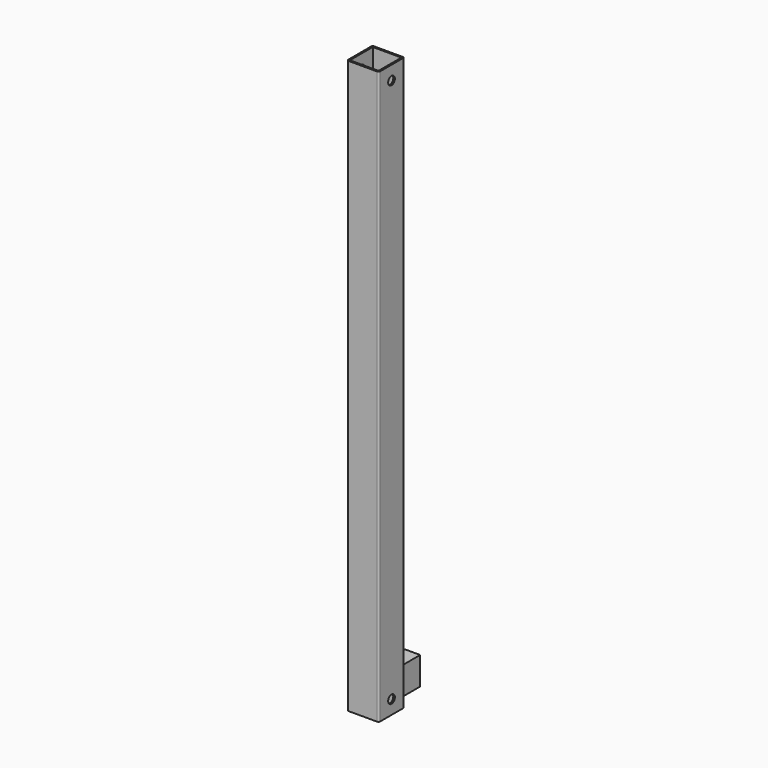
from build123d import *

# Parameters (mm, degrees)
F0_W     = 40
F0_H     = 40
F0_W_2   = 36
F0_H_2   = 36
F1_DEPTH = 720
F2_W     = 36
F2_H     = 36
F2_R     = 5.25
F3_DEPTH = 35
F5_D     = 10.5
F7_D     = 10.5
F8_R     = 2


with BuildPart() as f1:
    # F0 (on Top) → F1 (new body)
    with BuildSketch(Plane.XY):
        with Locations((-20, -20)):
            Rectangle(F0_W, F0_H)
        with Locations((-20, -20)):
            Rectangle(F0_W_2, F0_H_2, mode=Mode.SUBTRACT)
    extrude(amount=F1_DEPTH)

    # F5 (through all)
    with Locations(Plane(origin=(-40, 0, 0), x_dir=(0, -1, 0), z_dir=(-1, 0, 0))):
        with Locations((20, 17.5)):
            Hole(F5_D / 2)

    # F7 (through all)
    with Locations(Plane(origin=(-40, 0, 0), x_dir=(0, -1, 0), z_dir=(-1, 0, 0))):
        with Locations((20, 702.5)):
            Hole(F7_D / 2)

    # F8
    f8_edges = [f1.edges().sort_by_distance(p)[0] for p in [
        (0, -40, 360),
        (-40, -40, 360),
        (0, 0, 360),
        (-40, 0, 360),
    ]]
    fillet(f8_edges, radius=F8_R)


with BuildPart() as f3:
    # F2 (on Top) → F3 (new body)
    with BuildSketch(Plane.XY):
        with Locations((-33.769461, 26.767461)):
            Rectangle(F2_W, F2_H)
        with Locations((-33.769461, 26.767461)):
            Circle(F2_R, mode=Mode.SUBTRACT)
    extrude(amount=F3_DEPTH)


solid = Compound([f1.part, f3.part])
